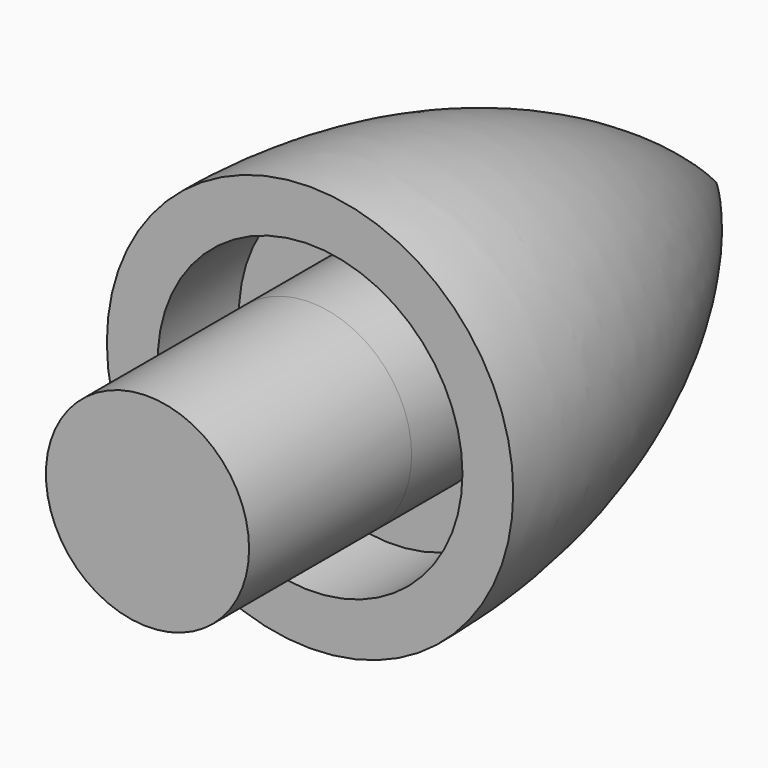
from build123d import *

# Parameters (mm, degrees)
F2_R     = 38.1
F2_R_2   = 25.4
F3_DEPTH = 25.4
F4_DEPTH = 50.8


with BuildPart() as f1:
    # F0 (on Top) → F1 (revolve)
    with BuildSketch(Plane.XY):
        with BuildLine():
            add(Edge.make_bspline(
                [(50.8, 0), (50.8, 38.1), (40.31148, 86.68852), (0, 127)],
                knots=[0, 0, 0, 0, 136.783186, 136.783186, 136.783186, 136.783186], degree=3))
            Line((0, 127), (0, 0))
            Line((0, 0), (50.8, 0))
        make_face()
    revolve(axis=Axis((0, 63.5, 0), (0, -1, 0)))

    # F2 (on face) → F3 (cut)
    with BuildSketch(Plane.XZ):
        Circle(F2_R)
        Circle(F2_R_2, mode=Mode.SUBTRACT)
    extrude(amount=-F3_DEPTH, mode=Mode.SUBTRACT)

    # F2 (on face) → F4 (join)
    with BuildSketch(Plane.XZ):
        Circle(F2_R_2)
    extrude(amount=F4_DEPTH)


solid = f1.part
